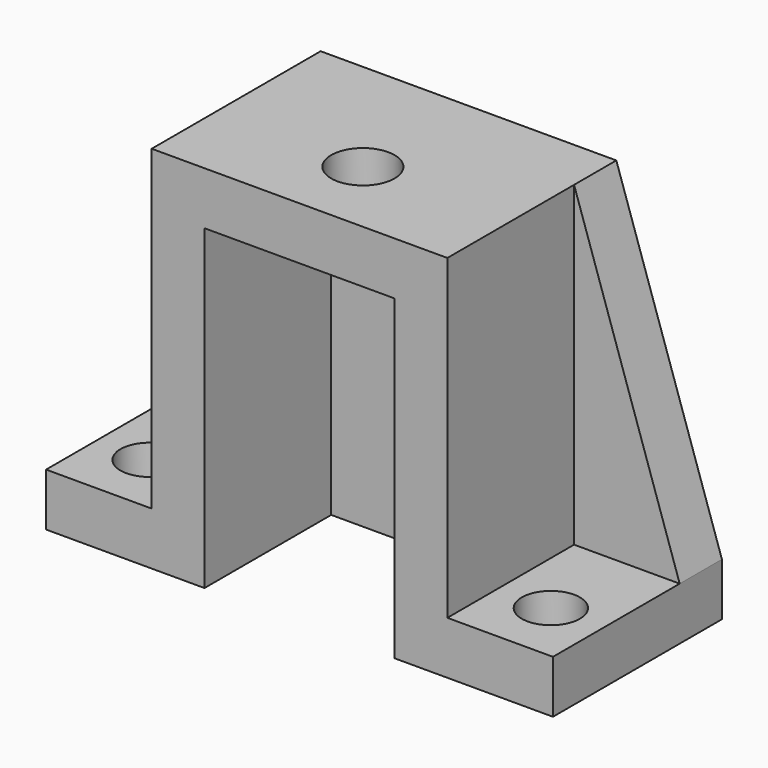
from build123d import *

# Parameters (mm, degrees)
F1_DEPTH = 40
F0_W     = 36
F0_H     = 60
F2_DEPTH = 10
F3_R     = 6
F4_DEPTH = 25
F5_R     = 5.5
F6_DEPTH = 250


with BuildPart() as f1:
    # F0 (on Front) → F1 (new body)
    with BuildSketch(Plane.XZ):
        Polygon((24.5, 48.333333), (-31.5, 48.333333), (-31.5, -11.666667), (-51.5, -11.666667), (-51.5, -21.666667), (-21.5, -21.666667), (-21.5, 38.333333), (14.5, 38.333333), (14.5, -21.666667), (44.5, -21.666667), (44.5, -11.666667), (24.5, -11.666667), align=None)
    extrude(amount=F1_DEPTH)

    # F0 (on Front) → F2 (join)
    with BuildSketch(Plane.XZ):
        Polygon((24.5, 48.333333), (-31.5, 48.333333), (-31.5, -11.666667), (-51.5, -11.666667), (-51.5, -21.666667), (-21.5, -21.666667), (-21.5, 38.333333), (14.5, 38.333333), (14.5, -21.666667), (44.5, -21.666667), (44.5, -11.666667), (24.5, -11.666667), align=None)
        Polygon((-31.5, -11.666667), (-31.5, 48.333333), (-51.5, -11.666667), align=None)
        Polygon((44.5, -11.666667), (24.5, 48.333333), (24.5, -11.666667), align=None)
        with Locations((-3.5, 8.333333)):
            Rectangle(F0_W, F0_H)
    extrude(amount=F2_DEPTH)

    # F3 (on face) → F4 (cut)
    with BuildSketch(Plane.XY.offset(48.333333)):
        with Locations((-3.5, -25)):
            Circle(F3_R)
    extrude(amount=-F4_DEPTH, mode=Mode.SUBTRACT)

    # F5 (on face) → F6 (cut)
    with BuildSketch(Plane.XY.offset(48.333333)):
        with Locations((-41.5, -28)):
            Circle(F5_R)
        with Locations((34.5, -28)):
            Circle(F5_R)
    extrude(amount=-F6_DEPTH, mode=Mode.SUBTRACT)


solid = f1.part
